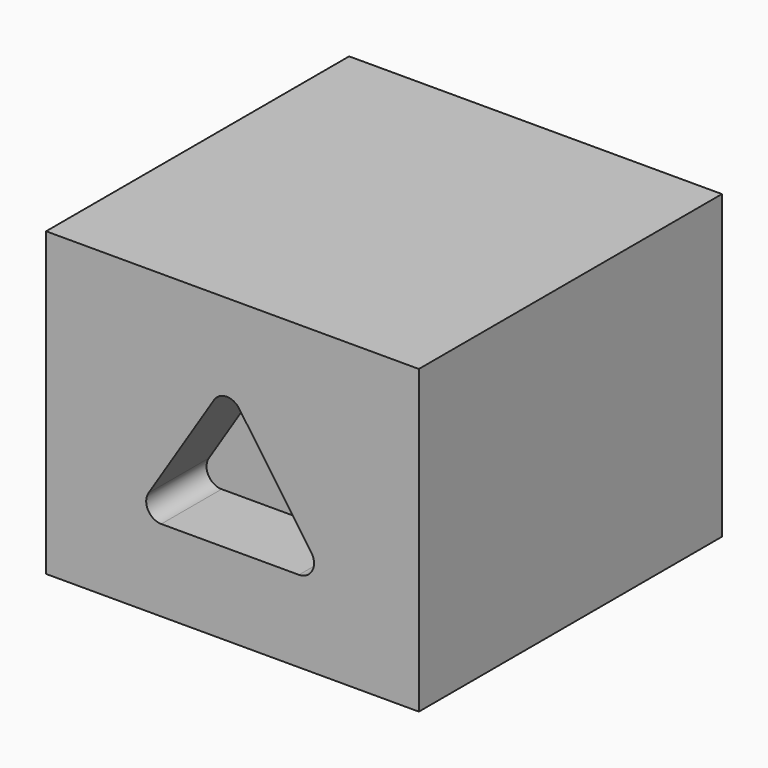
from build123d import *

# Parameters (mm, degrees)
F0_W     = 123.5685497522
F0_H     = 125.5645230412
F1_DEPTH = 100
F3_DEPTH = 25
F4_R     = 5


with BuildPart() as f1:
    # F0 (on Top) → F1 (new body)
    with BuildSketch(Plane.XY):
        with Locations((2.0866915584, 3.2661296427)):
            Rectangle(F0_W, F0_H)
    extrude(amount=F1_DEPTH)

    # F2 (on face) → F3 (cut)
    with BuildSketch(Plane.XZ.offset(59.5161318779)):
        Polygon((0, 75.206823647), (-30.6101683527, 26.9990302622), (33.7249785662, 26.9990302622), align=None)
    extrude(amount=-F3_DEPTH, mode=Mode.SUBTRACT)

    # F4
    f4_edges = [f1.edges().sort_by_distance(p)[0] for p in [
        (0, -47.016132, 75.206824),
        (-30.610168, -47.016132, 26.99903),
        (33.724979, -47.016132, 26.99903),
    ]]
    fillet(f4_edges, radius=F4_R)


solid = f1.part
